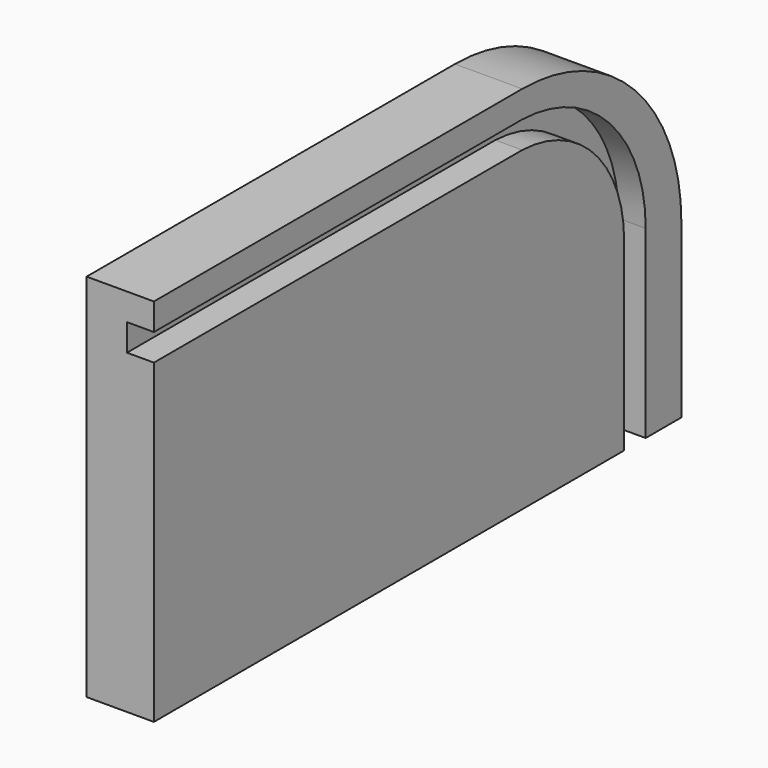
from build123d import *

# Parameters (mm, degrees)
F0_W     = 195.9732845426
F0_H     = 110.0095510483
F1_DEPTH = 20
F2_R     = 59.148
F4_DEPTH = 8


with BuildPart() as f1:
    # F0 (on Right) → F1 (new body)
    with BuildSketch(Plane.YZ):
        with Locations((-0.1502893865, 0.1502856612)):
            Rectangle(F0_W, F0_H)
    extrude(amount=-F1_DEPTH)

    # F2
    f2_edges = [f1.edges().sort_by_distance(p)[0] for p in [
        (-10, 97.836353, 55.155061),
    ]]
    fillet(f2_edges, radius=F2_R)

    # F3 (on face) → F4 (cut)
    with BuildSketch(Plane.YZ):
        with BuildLine():
            Line((38.6883528848, 47.1550611854), (-98.1369316578, 47.1550611854))
            Line((-98.1369316578, 47.1550611854), (-98.1369316578, 39.1550611854))
            Line((-98.1369316578, 39.1550611854), (38.6883528848, 39.1550611854))
            ThreePointArc((38.6883528848, 39.1550611854), (65.5487139379, 27.2398659264), (76.5687220266, 0))
            Line((76.5687220266, 0), (76.5687220266, -54.8544898629))
            Line((76.5687220266, -54.8544898629), (84.5687220266, -54.8544898629))
            Line((84.5687220266, -54.8544898629), (84.5687220266, 0))
            ThreePointArc((84.5687220266, 0), (71.2059826894, 32.896079052), (38.6883528848, 47.1550611854))
        make_face()
    extrude(amount=-F4_DEPTH, mode=Mode.SUBTRACT)


solid = f1.part
